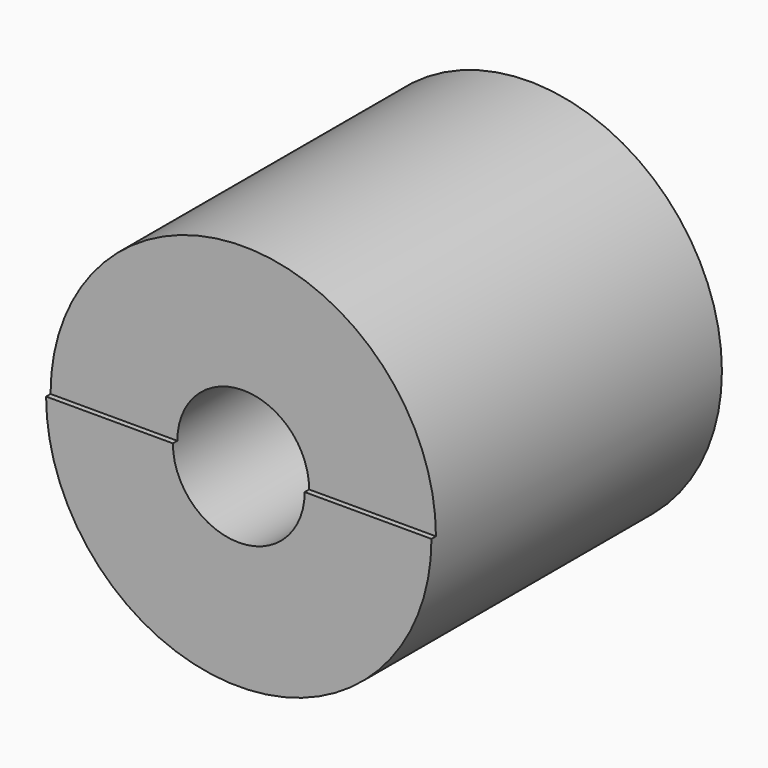
from build123d import *

# Parameters (mm, degrees)
F0_R     = 17.25
F0_R_2   = 5.9
F1_DEPTH = 32.5
F3_DEPTH = 0.5
F4_SIZE  = 1


with BuildPart() as f1:
    # F0 (on Front) → F1 (new body)
    with BuildSketch(Plane.XZ):
        Circle(F0_R)
        Circle(F0_R_2, mode=Mode.SUBTRACT)
    extrude(amount=F1_DEPTH)

    # F2 (on face) → F3 (cut)
    with BuildSketch(Plane.XZ.offset(32.5)):
        with BuildLine():
            ThreePointArc((-5.9, 0), (0, 5.9), (5.9, 0))
            Line((5.9, 0), (17.25, 0))
            ThreePointArc((17.25, 0), (0, 17.25), (-17.25, 0))
            Line((-17.25, 0), (-5.9, 0))
        make_face()
    extrude(amount=-F3_DEPTH, mode=Mode.SUBTRACT)

    # F4
    f4_edges = [f1.edges().sort_by_distance(p)[0] for p in [
        (-5.9, 0, 0),
    ]]
    chamfer(f4_edges, length=F4_SIZE)


solid = f1.part
